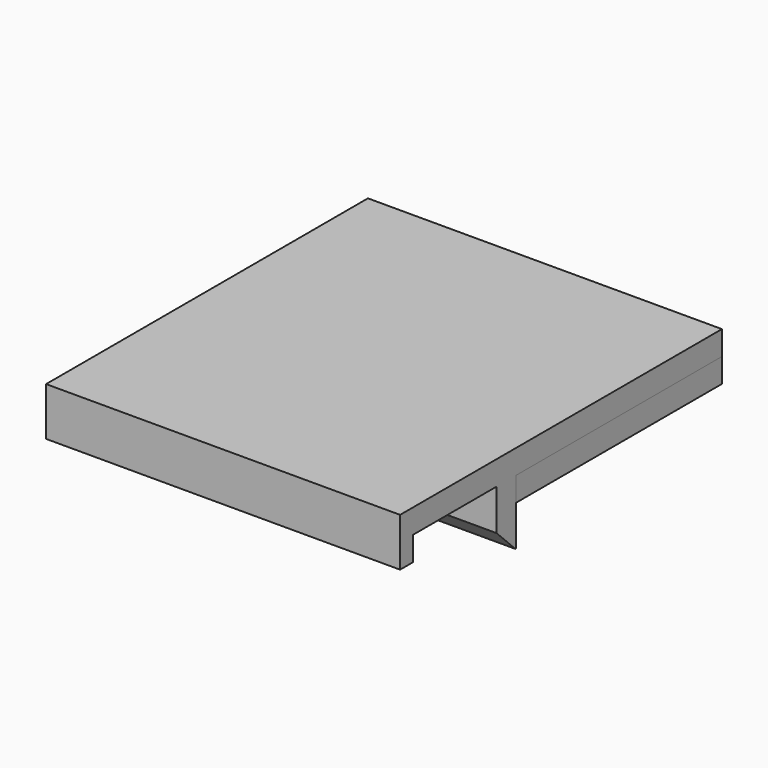
from build123d import *

# Parameters (mm, degrees)
BOX_W                  = 44
BOX_H                  = 48
BOX_DEPTH              = 3
BOX001_W               = 44
BOX001_H               = 2
BOX001_DEPTH           = 6
BOX002_W               = 44
BOX002_H               = 3
BOX002_DEPTH           = 8
CHAMFER_SIZE           = 2.9
BOX003_W               = 3
BOX003_H               = 32
BOX003_DEPTH           = 3
LINEARPATTERN001_COUNT = 8
LINEARPATTERN001_PITCH = 5.857143


with BuildPart() as part:
    # Box → Box (join)
    with BuildSketch(Plane.XY):
        with Locations((22, 24)):
            Rectangle(BOX_W, BOX_H)
    extrude(amount=BOX_DEPTH)

    # Box001 → Box001 (join)
    with BuildSketch(Plane(origin=(0, -2, -3), x_dir=(1, 0, 0), z_dir=(0, 0, 1))):
        with Locations((22, 1)):
            Rectangle(BOX001_W, BOX001_H)
    extrude(amount=BOX001_DEPTH)

    # Box002 → Box002 (join)
    with BuildSketch(Plane(origin=(0, 13, -8), x_dir=(1, 0, 0), z_dir=(0, 0, 1))):
        with Locations((22, 1.5)):
            Rectangle(BOX002_W, BOX002_H)
    extrude(amount=BOX002_DEPTH)

    # Chamfer
    chamfer_edges = [part.edges().sort_by_distance(p)[0] for p in [
        (22, 13, -8),
    ]]
    chamfer(chamfer_edges, length=CHAMFER_SIZE)

    # Box003 → Box003 (join)
    with BuildSketch(Plane(origin=(0, 16, -3), x_dir=(1, 0, 0), z_dir=(0, 0, 1))):
        with Locations((1.5, 16)):
            Rectangle(BOX003_W, BOX003_H)
    box003 = extrude(amount=BOX003_DEPTH)

    # LinearPattern001: Box003 ×8
    with Locations(*[(i * LINEARPATTERN001_PITCH, 0, 0) for i in range(1, LINEARPATTERN001_COUNT)]):
        add(box003)


solid = part.part
